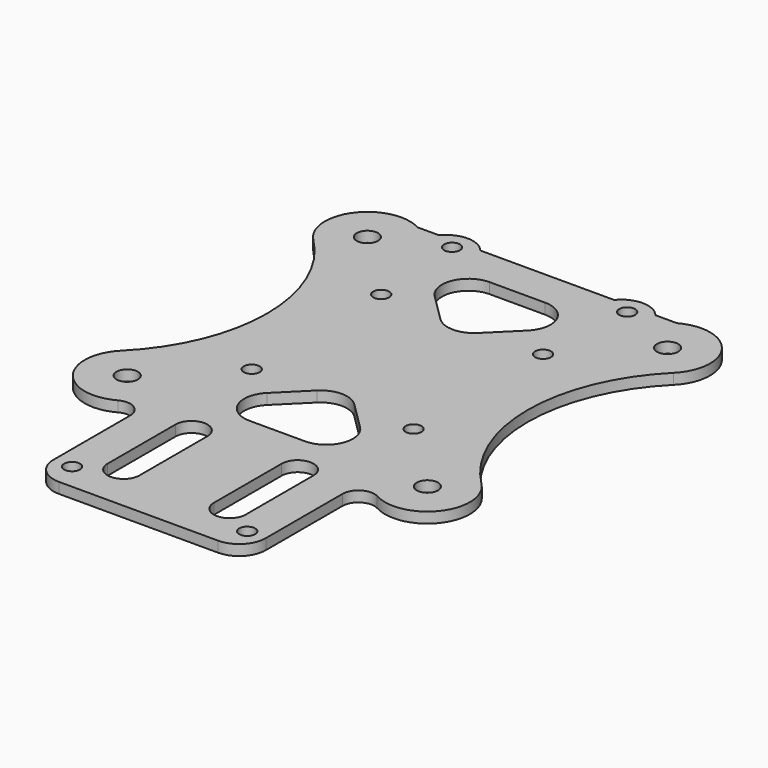
from build123d import *

# Parameters (mm, degrees)
SKETCH_R     = 2
SKETCH_R_2   = 1.5
PAD_DEPTH    = 2
SKETCH001_R  = 1.5
POCKET_DEPTH = 2.001


with BuildPart() as part:
    # Sketch → Pad (new body)
    with BuildSketch(Plane.XY):
        with BuildLine():
            Line((-20, -37.931886), (-20, -56))
            ThreePointArc((-20, -56), (-18.535534, -59.535534), (-15, -61))
            Line((-15, -61), (15, -61))
            ThreePointArc((15, -61), (18.535534, -59.535534), (20, -56))
            Line((20, -37.931886), (20, -56))
            ThreePointArc((24.441165, -35.300719), (21.470865, -35.35085), (20, -37.931886))
            ThreePointArc((24.441165, -35.300719), (34.685487, -33.08265), (33.941125, -22.627417))
            ThreePointArc((33.941125, 22.627417), (24.568542, 0), (33.941125, -22.627417))
            ThreePointArc((33.941125, 22.627417), (34.685487, 33.08265), (24.441165, 35.300719))
            Line((24.441165, 35.300719), (20.385, 35.300719))
            ThreePointArc((20.385, 35.300719), (16.5, 37.153216), (12.615, 35.300719))
            Line((-12.615, 35.300719), (12.615, 35.300719))
            ThreePointArc((-12.615, 35.300719), (-16.5, 37.153216), (-20.385, 35.300719))
            Line((-24.441165, 35.300719), (-20.385, 35.300719))
            ThreePointArc((-24.441165, 35.300719), (-34.685487, 33.08265), (-33.941125, 22.627417))
            ThreePointArc((-33.941125, -22.627417), (-24.568542, 0), (-33.941125, 22.627417))
            ThreePointArc((-33.941125, -22.627417), (-34.685487, -33.08265), (-24.441165, -35.300719))
            ThreePointArc((-20, -37.931886), (-21.470865, -35.35085), (-24.441165, -35.300719))
        make_face()
        with Locations((28.284271, 28.284271)):
            Circle(SKETCH_R, mode=Mode.SUBTRACT)
        with Locations((28.284271, -28.284271)):
            Circle(SKETCH_R, mode=Mode.SUBTRACT)
        with Locations((-28.284271, -28.284271)):
            Circle(SKETCH_R, mode=Mode.SUBTRACT)
        with Locations((-28.284271, 28.284271)):
            Circle(SKETCH_R, mode=Mode.SUBTRACT)
        with Locations((15.25, 15.25)):
            Circle(SKETCH_R_2, mode=Mode.SUBTRACT)
        with Locations((-15.25, 15.25)):
            Circle(SKETCH_R_2, mode=Mode.SUBTRACT)
        with Locations((-15.25, -15.25)):
            Circle(SKETCH_R_2, mode=Mode.SUBTRACT)
        with Locations((15.25, -15.25)):
            Circle(SKETCH_R_2, mode=Mode.SUBTRACT)
        with BuildLine():
            ThreePointArc((-7, -36), (-10, -33), (-13, -36))
            Line((-13, -36), (-13, -52))
            ThreePointArc((-13, -52), (-10, -55), (-7, -52))
            Line((-7, -36), (-7, -52))
        make_face(mode=Mode.SUBTRACT)
        with BuildLine():
            ThreePointArc((13, -36), (10, -33), (7, -36))
            Line((7, -36), (7, -52))
            ThreePointArc((7, -52), (10, -55), (13, -52))
            Line((13, -36), (13, -52))
        make_face(mode=Mode.SUBTRACT)
        with BuildLine():
            Line((-8.75337, 19.734959), (-3.521702, 14.543988))
            ThreePointArc((-3.521702, 14.543988), (0, 13.0933), (3.521702, 14.543988))
            Line((3.521702, 14.543988), (8.75337, 19.734959))
            ThreePointArc((8.75337, 19.734959), (9.854793, 25.188666), (5.231669, 28.284271))
            Line((5.231669, 28.284271), (-5.231669, 28.284271))
            ThreePointArc((-5.231669, 28.284271), (-9.854793, 25.188666), (-8.75337, 19.734959))
        make_face(mode=Mode.SUBTRACT)
        with BuildLine():
            Line((3.521702, -14.543988), (8.75337, -19.734959))
            ThreePointArc((5.231669, -28.284271), (9.854793, -25.188666), (8.75337, -19.734959))
            Line((5.231669, -28.284271), (-5.231669, -28.284271))
            ThreePointArc((-8.75337, -19.734959), (-9.854793, -25.188666), (-5.231669, -28.284271))
            Line((-8.75337, -19.734959), (-3.521702, -14.543988))
            ThreePointArc((3.521702, -14.543988), (0, -13.0933), (-3.521702, -14.543988))
        make_face(mode=Mode.SUBTRACT)
    extrude(amount=PAD_DEPTH)

    # Sketch001 → Pocket (cut, through all)
    with BuildSketch(Plane.XY.offset(2)):
        with Locations((-16.5, 33.5)):
            Circle(SKETCH001_R)
        with Locations((16.5, 33.5)):
            Circle(SKETCH001_R)
        with Locations((16.5, -56)):
            Circle(SKETCH001_R)
        with Locations((-16.5, -56)):
            Circle(SKETCH001_R)
    extrude(amount=-POCKET_DEPTH, mode=Mode.SUBTRACT)


solid = part.part
